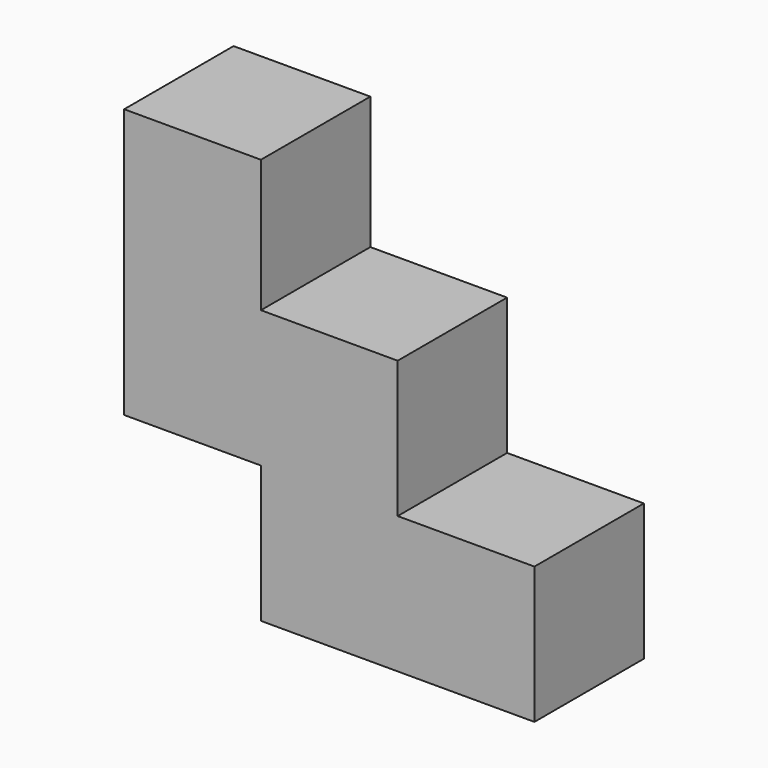
from build123d import *

# Parameters (mm, degrees)
F0_W     = 25.4
F0_H     = 24.601135
F0_H_2   = 25.4
F1_DEPTH = 25.4


with BuildPart() as f1:
    # F0 (on Front) → F1 (new body)
    with BuildSketch(Plane.XZ):
        with Locations((-38.1, 63.100567)):
            Rectangle(F0_W, F0_H)
        with Locations((-38.1, 38.1)):
            Rectangle(F0_W, F0_H_2)
        with Locations((-12.7, 38.1)):
            Rectangle(F0_W, F0_H_2)
        with Locations((-12.7, 12.7)):
            Rectangle(F0_W, F0_H_2)
        with Locations((12.7, 12.7)):
            Rectangle(F0_W, F0_H_2)
    extrude(amount=F1_DEPTH)


solid = f1.part
